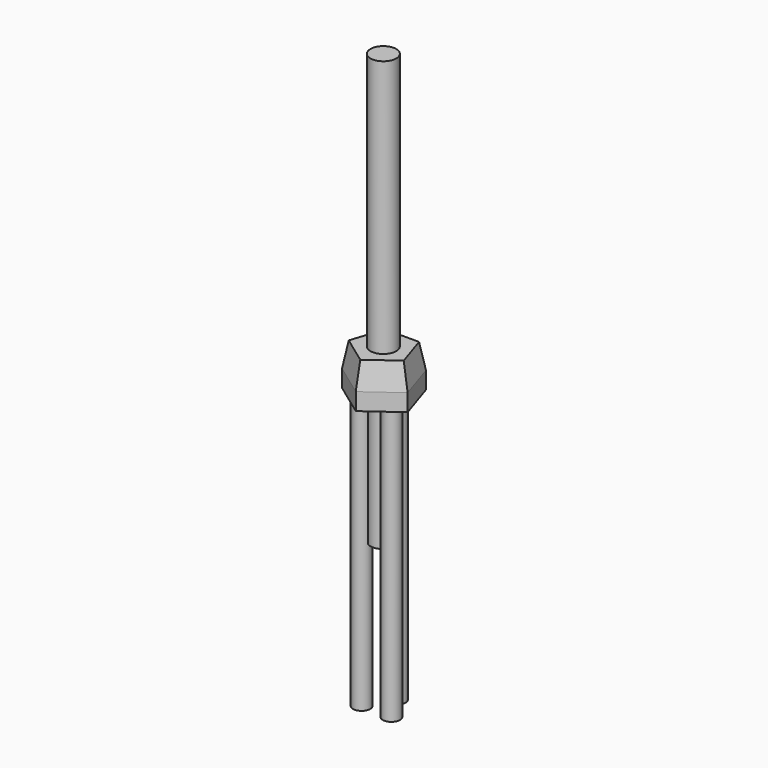
from build123d import *

# Parameters (mm, degrees)
F0_R          = 25.4
F1_DEPTH      = 863.6
F2_R          = 25.4
F3_DEPTH      = 50.8
F3_DEPTH_BACK = 76.2
F3_TAPER_BACK = 10
F4_R          = 38.1
F5_DEPTH      = 762
F5_DEPTH_BACK = 508


with BuildPart() as f1:
    # F0 (on Top) → F1 (new body)
    with BuildSketch(Plane.XY):
        with Locations((0, 50.8)):
            Circle(F0_R)
    extrude(amount=F1_DEPTH)



with BuildPart() as f1b:
    # F0 (on Top) → F1, piece 2 (new body)
    with BuildSketch(Plane.XY):
        with Locations((-43.9940905122, -25.4)):
            Circle(F0_R)
    extrude(amount=F1_DEPTH)


with BuildPart() as f1c:
    # F0 (on Top) → F1, piece 3 (new body)
    with BuildSketch(Plane.XY):
        with Locations((43.9940905122, -25.4)):
            Circle(F0_R)
    extrude(amount=F1_DEPTH)


with BuildPart() as f1_1:
    add(f1.part)

    add(f1b.part)  # F3 merges F1b

    add(f1c.part)  # F3 merges F1c
    # F2 (on face) → F3 (join, two sides)
    with BuildSketch(Plane.XY.offset(863.6)) as f3_sk:
        Polygon((59.9760856868, 82.55), (-59.9760856868, 82.55), (-97.0433451535, -31.5312942287), (0, -102.0374115426), (97.0433451535, -31.5312942287), align=None)
        with Locations((-43.9940905122, -25.4)):
            Circle(F2_R, mode=Mode.SUBTRACT)
        with Locations((-43.9940905122, -25.4)):
            Circle(F2_R)
    extrude(amount=-F3_DEPTH)
    extrude(f3_sk.sketch, amount=F3_DEPTH_BACK, taper=F3_TAPER_BACK)

    # F4 (on face) → F5 (join, two sides)
    with BuildSketch(Plane.XY.offset(939.8)) as f5_sk:
        Circle(F4_R)
    extrude(amount=F5_DEPTH)
    extrude(f5_sk.sketch, amount=-F5_DEPTH_BACK)


solid = f1_1.part
